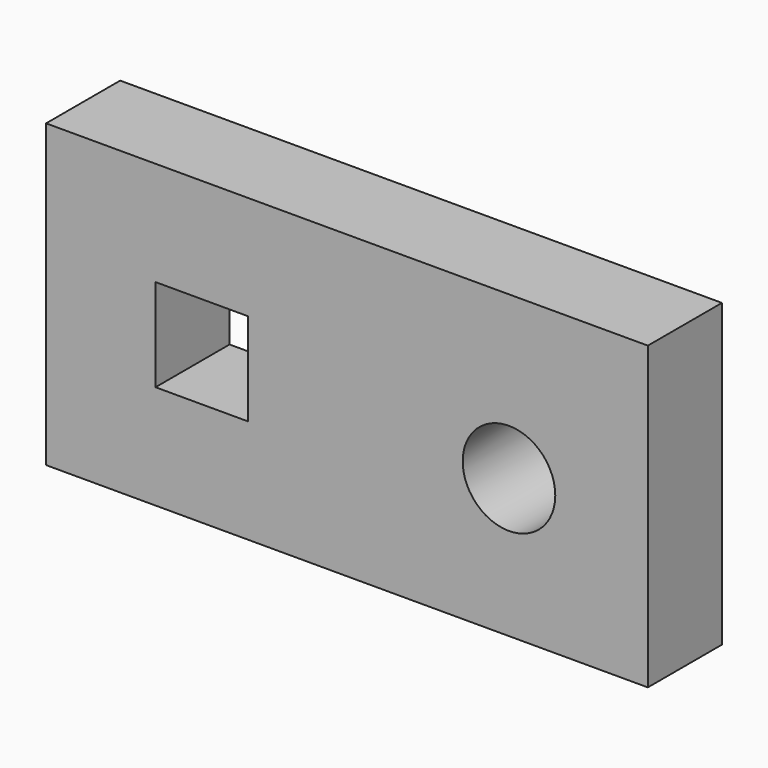
from build123d import *

# Parameters (mm, degrees)
F0_W     = 165.1
F0_H     = 82.55
F3_DEPTH = 25.4
F1_W     = 25.4
F1_H     = 25.4
F4_DEPTH = 812.8
F2_R     = 12.7
F5_DEPTH = 1752.6


with BuildPart() as f3:
    # F0 (on Front) → F3 (new body)
    with BuildSketch(Plane.XZ):
        with Locations((-82.55, 41.275)):
            Rectangle(F0_W, F0_H)
    extrude(amount=F3_DEPTH)

    # F1 (on face) → F4 (cut)
    with BuildSketch(Plane.XZ):
        with Locations((-122.377806, 41.276296)):
            Rectangle(F1_W, F1_H)
    extrude(amount=F4_DEPTH, mode=Mode.SUBTRACT)

    # F2 (on face) → F5 (cut)
    with BuildSketch(Plane.XZ):
        with Locations((-38.1, 38.1)):
            Circle(F2_R)
    extrude(amount=F5_DEPTH, mode=Mode.SUBTRACT)


solid = f3.part
